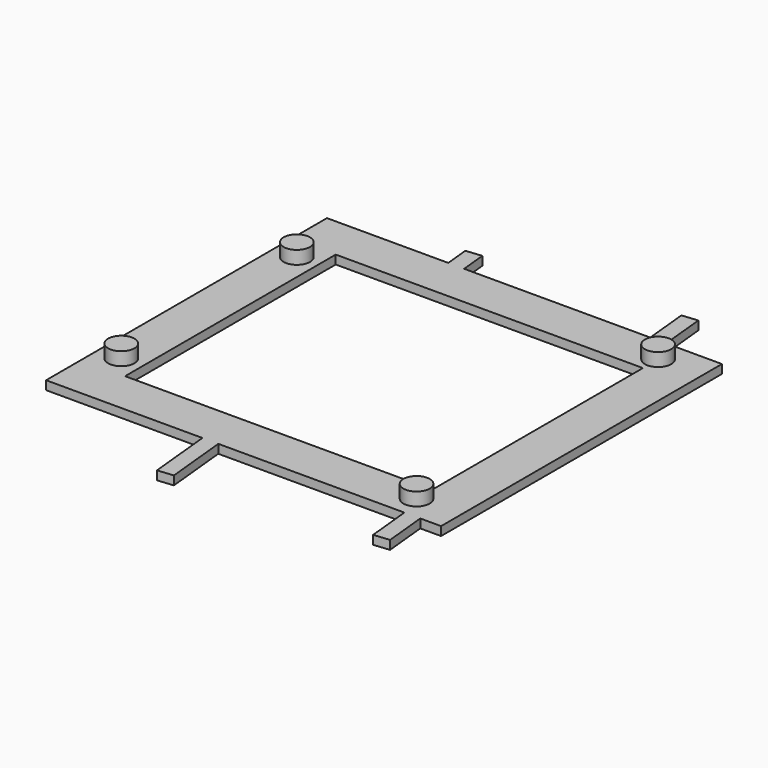
from build123d import *

# Parameters (mm, degrees)
CYLINDER039_R          = 1.5
CYLINDER039_DEPTH      = 1.6
BOX015_W               = 1.8
BOX015_H               = 6
BOX015_DEPTH           = 1
BOX015_PLACEMENT_ANGLE = 5.7
BOX016_W               = 1.8
BOX016_H               = 10
BOX016_DEPTH           = 1
BOX016_PLACEMENT_ANGLE = 5.7
BOX017_W               = 1.8
BOX017_H               = 10
BOX017_DEPTH           = 1
BOX017_PLACEMENT_ANGLE = 5.7
BOX018_W               = 1.8
BOX018_H               = 10
BOX018_DEPTH           = 1
BOX018_PLACEMENT_ANGLE = 5.7
BOX019_W               = 35
BOX019_H               = 30
BOX019_DEPTH           = 1
BOX_W                  = 45
BOX_H                  = 40
BOX_DEPTH              = 1


with BuildPart() as rc522_cyl_col1:
    # Cylinder039 → Cylinder039 (new body)
    with BuildSketch(Plane(origin=(32, -3.4, -6.1), x_dir=(1, 0, 0), z_dir=(0, 0, 1))):
        Circle(CYLINDER039_R)
    extrude(amount=CYLINDER039_DEPTH)


with BuildPart() as rc522_cyl_col004:
    # Clone015 base: copy of rc522-cyl-col1
    add(rc522_cyl_col1.part)


with BuildPart() as rc522_cyl_col004_1:
    # Clone015 placement: moved
    add(rc522_cyl_col004.part.moved(Location((-37.4, 29.7, 0))))


with BuildPart() as rc522_cyl_col003:
    # Clone014 base: copy of rc522-cyl-col1
    add(rc522_cyl_col1.part)


with BuildPart() as rc522_cyl_col003_1:
    # Clone014 placement: moved
    add(rc522_cyl_col003.part.moved(Location((-37.4, 4.7, 0))))


with BuildPart() as rc522_cyl_col002:
    # Clone013 base: copy of rc522-cyl-col1
    add(rc522_cyl_col1.part)


with BuildPart() as rc522_cyl_col002_1:
    # Clone013 placement: moved
    add(rc522_cyl_col002.part.moved(Location((0, 34.4, 0))))


with BuildPart() as cube011:
    # Box015 → Box015 (new body)
    with BuildSketch(Plane.XY):
        with Locations((0.9, 3)):
            Rectangle(BOX015_W, BOX015_H)
    extrude(amount=BOX015_DEPTH)


with BuildPart() as cube011_1:
    # Box015 placement: moved
    add(cube011.part.moved(Location((6.14, 30.65, -7))).rotate(Axis((6.14, 30.65, -7), (0, 0, 1)), BOX015_PLACEMENT_ANGLE))


with BuildPart() as cube012:
    # Box016 → Box016 (new body)
    with BuildSketch(Plane.XY):
        with Locations((0.9, 5)):
            Rectangle(BOX016_W, BOX016_H)
    extrude(amount=BOX016_DEPTH)


with BuildPart() as cube012_1:
    # Box016 placement: moved
    add(cube012.part.moved(Location((29.32, 28.95, -7))).rotate(Axis((29.32, 28.95, -7), (0, 0, 1)), BOX016_PLACEMENT_ANGLE))


with BuildPart() as cube013:
    # Box017 → Box017 (new body)
    with BuildSketch(Plane.XY):
        with Locations((0.9, 5)):
            Rectangle(BOX017_W, BOX017_H)
    extrude(amount=BOX017_DEPTH)


with BuildPart() as cube013_1:
    # Box017 placement: moved
    add(cube013.part.moved(Location((10.55, -13.56, -7))).rotate(Axis((10.55, -13.56, -7), (0, 0, 1)), BOX017_PLACEMENT_ANGLE))


with BuildPart() as cube014:
    # Box018 → Box018 (new body)
    with BuildSketch(Plane.XY):
        with Locations((0.9, 5)):
            Rectangle(BOX018_W, BOX018_H)
    extrude(amount=BOX018_DEPTH)


with BuildPart() as cube014_1:
    # Box018 placement: moved
    add(cube014.part.moved(Location((33.33, -11.25, -7))).rotate(Axis((33.33, -11.25, -7), (0, 0, 1)), BOX018_PLACEMENT_ANGLE))


with BuildPart() as cube015:
    # Box019 → Box019 (new body)
    with BuildSketch(Plane(origin=(-3, -1.16, -7), x_dir=(1, 0, 0), z_dir=(0, 0, 1))):
        with Locations((17.5, 15)):
            Rectangle(BOX019_W, BOX019_H)
    extrude(amount=BOX019_DEPTH)


with BuildPart() as plastic_substrate:
    # Box → Box (new body)
    with BuildSketch(Plane(origin=(-8, -6.16, -7), x_dir=(1, 0, 0), z_dir=(0, 0, 1))):
        with Locations((22.5, 20)):
            Rectangle(BOX_W, BOX_H)
    extrude(amount=BOX_DEPTH)

    # Cut006: cut Cube015
    add(cube015.part, mode=Mode.SUBTRACT)

    # Fusion014: union Cube014
    add(cube014_1.part)

    # Fusion015: union Cube013
    add(cube013_1.part)

    # Fusion016: union Cube012
    add(cube012_1.part)

    # Fusion017: union Cube011
    add(cube011_1.part)

    # Fusion018: union rc522-cyl-col1
    add(rc522_cyl_col1.part)

    # Fusion019: union rc522-cyl-col002
    add(rc522_cyl_col002_1.part)

    # Fusion020: union rc522-cyl-col003
    add(rc522_cyl_col003_1.part)

    # Fusion021: union rc522-cyl-col004
    add(rc522_cyl_col004_1.part)


with BuildPart() as plastic_substrate_1:
    # Fusion021 placement: moved
    add(plastic_substrate.part.moved(Location((-2.54, 0, 0))))


solid = plastic_substrate_1.part
